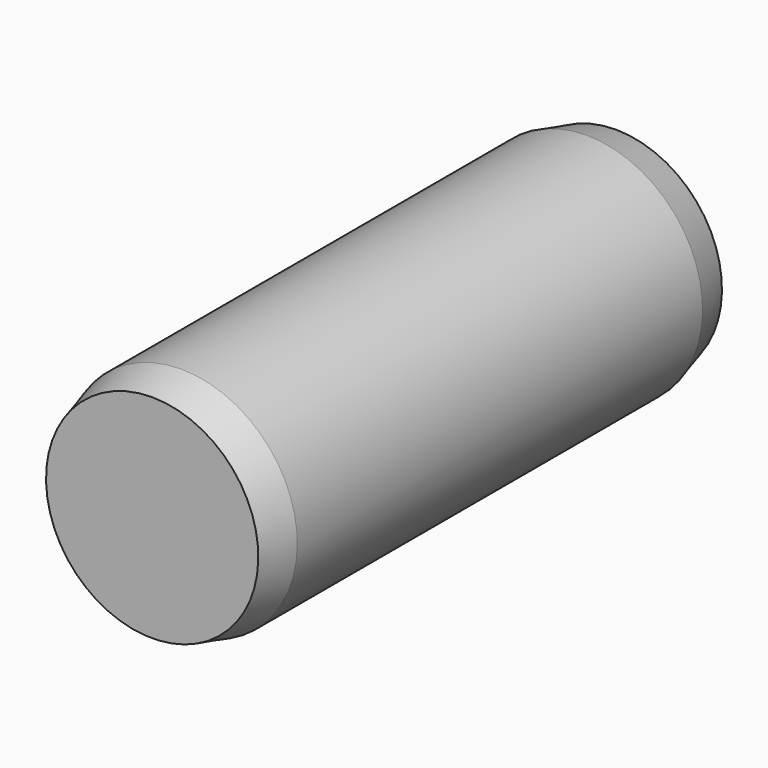
from build123d import *


with BuildPart() as part:
    # Sketch → Revolution (revolve)
    with BuildSketch(Plane.YZ):
        Polygon((0, 0), (0, 1.831192), (0.63, 2), (9.37, 2), (10, 1.831192), (10, 0), align=None)
    revolve(axis=Axis((0, 0, 0), (0, 1, 0)))


solid = part.part
